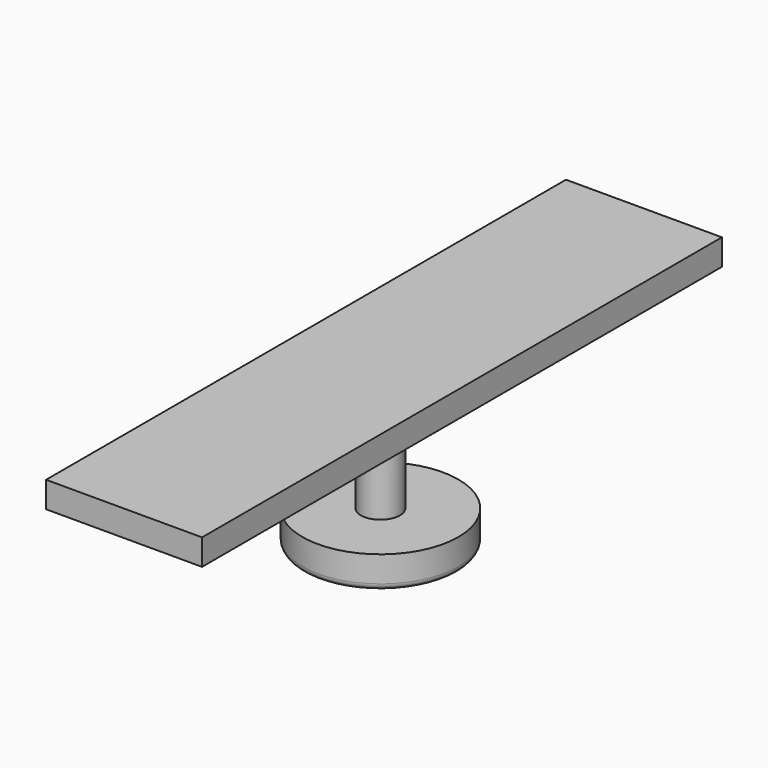
from build123d import *

# Parameters (mm, degrees)
F0_W     = 120
F0_H     = 500
F1_DEPTH = 20
F2_R     = 15
F3_DEPTH = 100
F4_R     = 60
F5_DEPTH = 25
F6_R     = 5


with BuildPart() as f1:
    # F0 (on Top) → F1 (new body)
    with BuildSketch(Plane.XY):
        Rectangle(F0_W, F0_H)
    extrude(amount=F1_DEPTH)

    # F2 (on face) → F3 (join)
    with BuildSketch(Plane.XY.offset(20)):
        with Locations((0, -3.444481)):
            Circle(F2_R)
    extrude(amount=-F3_DEPTH)

    # F4 (on face) → F5 (join)
    with BuildSketch(Plane(origin=(0, 0, -80), x_dir=(1, 0, 0), z_dir=(0, 0, -1))):
        with Locations((0, 3.444481)):
            Circle(F4_R)
    extrude(amount=F5_DEPTH)

    # F6
    f6_edges = [f1.edges().sort_by_distance(p)[0] for p in [
        (-60, -3.444481, -105),
    ]]
    fillet(f6_edges, radius=F6_R)


solid = f1.part
